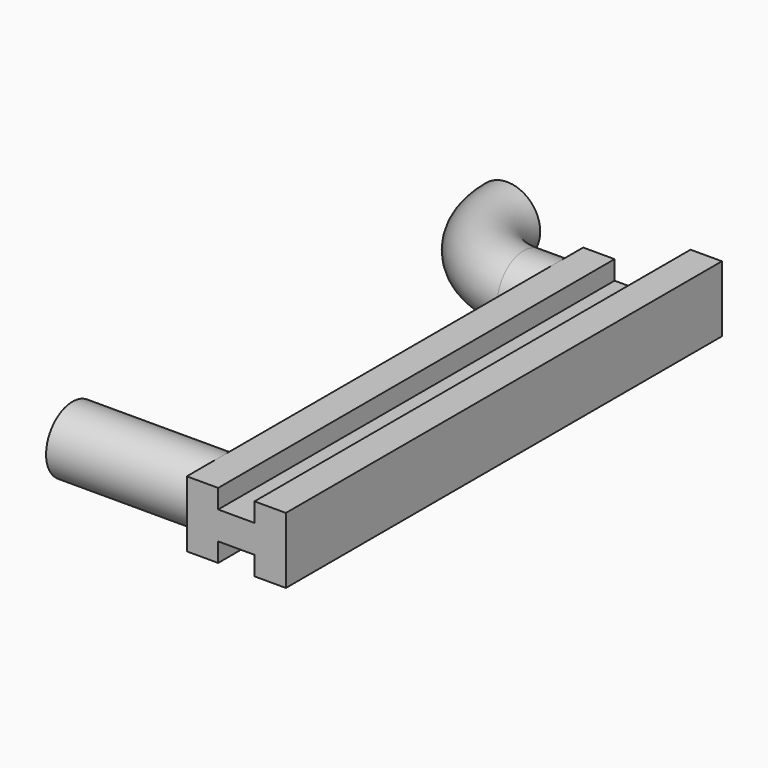
from build123d import *

# Parameters (mm, degrees)
BOX002_W          = 6
BOX002_H          = 30
BOX002_DEPTH      = 1.7
TORUS_R           = 2
TORUS_ANGLE       = 90
BOX001_W          = 1.9
BOX001_H          = 33
BOX001_DEPTH      = 4
CYLINDER001_R     = 2
CYLINDER001_DEPTH = 9
CYLINDER_R        = 2
CYLINDER_DEPTH    = 2
BOX_W             = 1.9
BOX_H             = 30
BOX_DEPTH         = 4


with BuildPart() as cube002:
    # Box002 → Box002 (new body)
    with BuildSketch(Plane(origin=(2, -28, -0.85), x_dir=(1, 0, 0), z_dir=(0, 0, 1))):
        with Locations((3, 15)):
            Rectangle(BOX002_W, BOX002_H)
    extrude(amount=BOX002_DEPTH)


with BuildPart() as torus:
    # Torus → Torus (revolve)
    with BuildSketch(Plane(origin=(0, 5, 0), x_dir=(-1, 0, 0), z_dir=(0, 1, 0))):
        with Locations((5, 0)):
            Circle(TORUS_R)
    revolve(axis=Axis((0, 5, 0), (0, 0, 1)), revolution_arc=TORUS_ANGLE)


with BuildPart() as cube001:
    # Box001 → Box001 (new body)
    with BuildSketch(Plane(origin=(6.1, -28, -2), x_dir=(1, 0, 0), z_dir=(0, 0, 1))):
        with Locations((0.95, 16.5)):
            Rectangle(BOX001_W, BOX001_H)
    extrude(amount=BOX001_DEPTH)


with BuildPart() as cylinder001:
    # Cylinder001 → Cylinder001 (new body)
    with BuildSketch(Plane(origin=(-7, -25.4, 0), x_dir=(0, 0, -1), z_dir=(1, 0, 0))):
        Circle(CYLINDER001_R)
    extrude(amount=CYLINDER001_DEPTH)


with BuildPart() as cylinder:
    # Cylinder → Cylinder (new body)
    with BuildSketch(Plane(origin=(0, 0, 0), x_dir=(0, 0, -1), z_dir=(1, 0, 0))):
        Circle(CYLINDER_R)
    extrude(amount=CYLINDER_DEPTH)


with BuildPart() as obj1:
    # Box → Box (new body)
    with BuildSketch(Plane(origin=(2, -28, -2), x_dir=(1, 0, 0), z_dir=(0, 0, 1))):
        with Locations((0.95, 15)):
            Rectangle(BOX_W, BOX_H)
    extrude(amount=BOX_DEPTH)

    # Fusion: union Cube002, Torus, Cube001, Cylinder001, Cylinder
    add(cube002.part)
    add(torus.part)
    add(cube001.part)
    add(cylinder001.part)
    add(cylinder.part)


with BuildPart() as obj1_1:
    # Fusion placement: moved
    add(obj1.part.moved(Location((-15, 0, 0))))


solid = obj1_1.part
